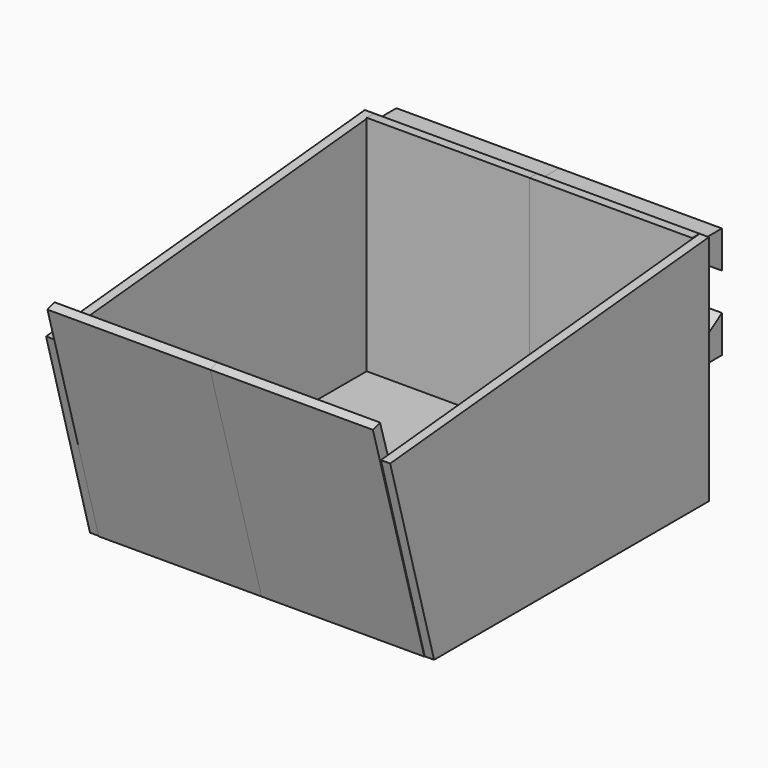
from build123d import *

# Parameters (mm, degrees)
F0_W     = 35
F0_H     = 50
F1_DEPTH = 2
F3_DEPTH = 35
F5_DEPTH = 2


with BuildPart() as f1:
    # F0 (on Front) → F1 (new body)
    with BuildSketch(Plane.XZ):
        with Locations((-17.5, 12.155963)):
            Rectangle(F0_W, F0_H)
    extrude(amount=F1_DEPTH)


with BuildPart() as f3:
    # F2 (on Right) → F3 (new body)
    with BuildSketch(Plane.YZ):
        Polygon((6, 35.714177), (0, 35.714177), (0, 31.714177), (6, 27.714175), align=None)
        Polygon((6, 11.714175), (6, 19.714175), (0, 15.714174), (0, 11.714175), align=None)
        with BuildLine():
            Line((-72, -12.844037), (-2, -12.844037))
            Line((-2, -12.844037), (-2, -10.844037))
            Line((-2, -10.844037), (-68.26169, -10.844037))
            ThreePointArc((-68.26169, -10.844037), (-71.255695, -9.848527), (-73.057474, -7.258411))
            Line((-73.057474, -7.258411), (-85.913629, 36.33355))
            Line((-85.913629, 36.33355), (-87.815307, 35.714177))
            Line((-87.815307, 35.714177), (-74, -12.844037))
            Line((-74, -12.844037), (-72, -12.844037))
        make_face()
    extrude(amount=-F3_DEPTH)


with BuildPart() as f5:
    # F4 (on face) → F5 (new body)
    with BuildSketch(Plane(origin=(-35, 0, 0), x_dir=(0, -1, 0), z_dir=(-1, 0, 0))):
        Polygon((85.677773, 29.123848), (0, 37.155963), (0, -12.844037), (73.875137, -12.844037), align=None)
    extrude(amount=F5_DEPTH)


with BuildPart() as f6_1:
    # F6: instance of F5
    add(f5.part.mirror(Plane.YZ))


with BuildPart() as f6_2:
    # F6: instance of F3
    add(f3.part.mirror(Plane.YZ))


with BuildPart() as f6_3:
    # F6: instance of F1
    add(f1.part.mirror(Plane.YZ))


solid = Compound([f1.part, f3.part, f5.part, f6_1.part, f6_2.part, f6_3.part])
